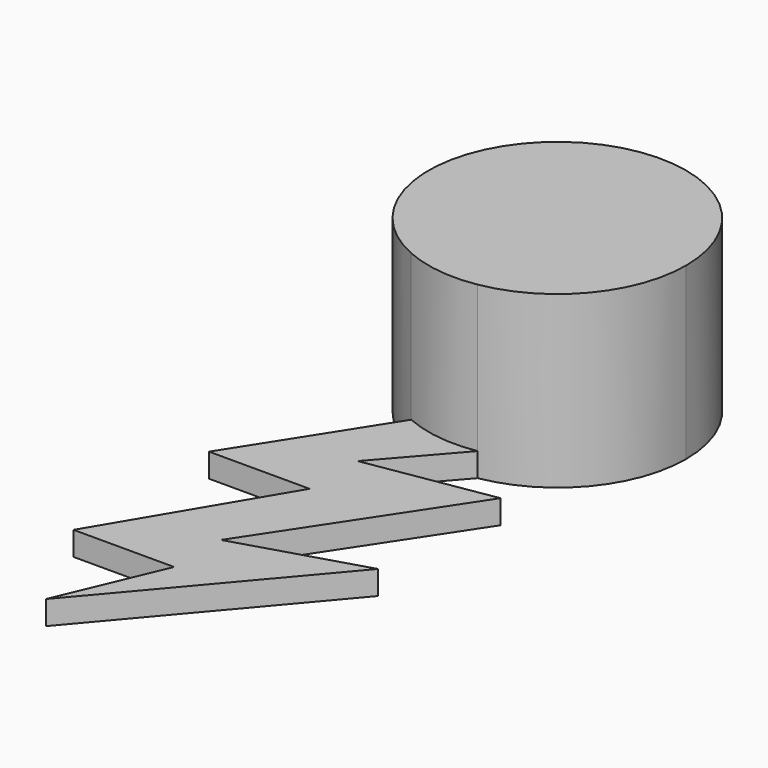
from build123d import *

# Parameters (mm, degrees)
F1_DEPTH = 25.4
F2_DEPTH = 3.556
F3_T     = -2.54


with BuildPart() as f1:
    # F0 (on Top) → F1 (new body)
    with BuildSketch(Plane.XY):
        with BuildLine():
            ThreePointArc((-19.084094, 13.35455), (-7.652475, 19.897622), (-3.132037, 32.269336))
            ThreePointArc((-3.132037, 32.269336), (-32.808841, 48.340367), (-30.050137, 14.70437))
            ThreePointArc((-30.050137, 14.70437), (-24.666363, 13.223166), (-19.084094, 13.35455))
        make_face()
    extrude(amount=F1_DEPTH)

    # F3
    f3_openings = [f1.faces().sort_by_distance(p)[0] for p in [
        (-22.321953, 32.269336, 0),
    ]]
    offset(amount=F3_T, openings=f3_openings)


with BuildPart() as f2:
    # F0 (on Top) → F2 (new body)
    with BuildSketch(Plane.XY):
        with BuildLine():
            ThreePointArc((-19.084094, 13.35455), (-24.666363, 13.223166), (-30.050137, 14.70437))
            Line((-30.050137, 14.70437), (-43.398347, -6.2854))
            Line((-43.398347, -6.2854), (-28.409777, -6.2854))
            Line((-28.409777, -6.2854), (-43.398347, -31.524297))
            Line((-43.398347, -31.524297), (-28.409777, -31.524297))
            Line((-28.409777, -31.524297), (-34.997916, -47.138913))
            Line((-34.997916, -47.138913), (-9.578819, -17.092727))
            Line((-9.578819, -17.092727), (-28.409777, -22.791805))
            Line((-28.409777, -22.791805), (-9.578819, 5.751056))
            Line((-9.578819, 5.751056), (-28.409777, 2.666984))
            Line((-28.409777, 2.666984), (-19.084094, 13.35455))
        make_face()
    extrude(amount=F2_DEPTH)


solid = Compound([f1.part, f2.part])
